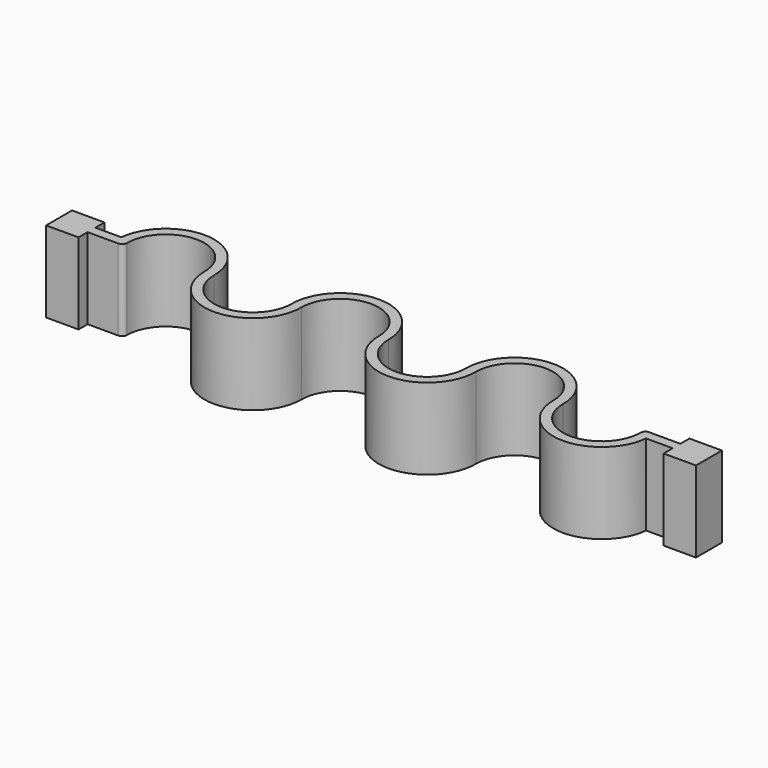
from build123d import *

# Parameters (mm, degrees)
F1_DEPTH = 25


with BuildPart() as f1:
    # F0 (on Top) → F1 (new body)
    with BuildSketch(Plane.XY):
        with BuildLine():
            ThreePointArc((-49.1562802567, 2.3152595113), (-49.2128732163, 1.5662082781), (-49.2317534387, 0.8152595113))
            Line((-49.2317534387, 0.8152595113), (-47.7317534387, 0.8152595113))
            ThreePointArc((-47.7317534387, 0.8152595113), (-47.7108165454, 1.5652595113), (-47.6480710788, 2.3129234465))
            ThreePointArc((-47.6480710788, 2.3129234465), (-47.6898959586, 2.3146753814), (-47.7317534387, 2.3152595113))
            Line((-47.7317534387, 2.3152595113), (-49.1562802567, 2.3152595113))
        make_face()
        with BuildLine():
            Line((-47.7317534387, 0.8152595113), (-49.2317534387, 0.8152595113))
            ThreePointArc((-49.2317534387, 0.8152595113), (-48.7924136105, -0.2454006604), (-47.7317534387, -0.6847404887))
            ThreePointArc((-47.7317534387, -0.6847404887), (-46.6710932669, -0.2454006604), (-46.2317534387, 0.8152595113))
            ThreePointArc((-46.2317534387, 0.8152595113), (-46.6419086012, 1.8459089328), (-47.6480710788, 2.3129234465))
            ThreePointArc((-47.6480710788, 2.3129234465), (-47.7108165454, 1.5652595113), (-47.7317534387, 0.8152595113))
        make_face()
        with BuildLine():
            ThreePointArc((-47.7317534387, -0.6847404887), (-48.7924136105, -0.2454006604), (-49.2317534387, 0.8152595113))
            ThreePointArc((-49.2317534387, 0.8152595113), (-49.2128732163, 1.5662082781), (-49.1562802567, 2.3152595113))
            Line((-49.1562802567, 2.3152595113), (-57.1654987335, 2.3152595113))
            Line((-57.1654987335, 2.3152595113), (-57.1654987335, 5.8152595113))
            Line((-57.1654987335, 5.8152595113), (-67.1654987335, 5.8152595113))
            Line((-67.1654987335, 5.8152595113), (-67.1654987335, -4.1847404887))
            Line((-67.1654987335, -4.1847404887), (-57.1654987335, -4.1847404887))
            Line((-57.1654987335, -4.1847404887), (-57.1654987335, -0.6847404887))
            Line((-57.1654987335, -0.6847404887), (-47.7317534387, -0.6847404887))
        make_face()
        with BuildLine():
            ThreePointArc((-19.3443664014, 0.8152595113), (-33.5371111533, 15.7400728076), (-49.1562802567, 2.3152595113))
            Line((-49.1562802567, 2.3152595113), (-47.7317534387, 2.3152595113))
            ThreePointArc((-47.7317534387, 2.3152595113), (-47.6898959586, 2.3146753814), (-47.6480710788, 2.3129234465))
            ThreePointArc((-47.6480710788, 2.3129234465), (-34.2880599201, 14.25895303), (-20.9280487614, 2.3129234465))
            ThreePointArc((-20.9280487614, 2.3129234465), (-19.8137169799, 1.9051043489), (-19.3443664014, 0.8152595113))
        make_face()
        with BuildLine():
            ThreePointArc((-20.9280487614, 2.3129234465), (-34.2880599201, 14.25895303), (-47.6480710788, 2.3129234465))
            ThreePointArc((-47.6480710788, 2.3129234465), (-46.6419086012, 1.8459089328), (-46.2317534387, 0.8152595113))
            ThreePointArc((-46.2317534387, 0.8152595113), (-34.2880599201, 12.75895303), (-22.3443664014, 0.8152595113))
            ThreePointArc((-22.3443664014, 0.8152595113), (-21.934211239, 1.8459089328), (-20.9280487614, 2.3129234465))
        make_face()
        with BuildLine():
            ThreePointArc((4.5430206358, 0.8152595113), (-7.4006728828, -11.1284340073), (-19.3443664014, 0.8152595113))
            ThreePointArc((-19.3443664014, 0.8152595113), (-19.7545215639, -0.2153899102), (-20.7606840415, -0.6824044238))
            ThreePointArc((-20.7606840415, -0.6824044238), (-7.4006728828, -12.6284340073), (5.9593382759, -0.6824044238))
            ThreePointArc((5.9593382759, -0.6824044238), (4.9531757983, -0.2153899102), (4.5430206358, 0.8152595113))
        make_face()
        with BuildLine():
            ThreePointArc((-20.7606840415, -0.6824044238), (-19.7545215639, -0.2153899102), (-19.3443664014, 0.8152595113))
            ThreePointArc((-19.3443664014, 0.8152595113), (-19.8137169799, 1.9051043489), (-20.9280487614, 2.3129234465))
            ThreePointArc((-20.9280487614, 2.3129234465), (-20.8653032947, 1.5652595113), (-20.8443664014, 0.8152595113))
            ThreePointArc((-20.8443664014, 0.8152595113), (-20.8234295081, 0.0652595113), (-20.7606840415, -0.6824044238))
        make_face()
        with BuildLine():
            ThreePointArc((-20.8443664014, 0.8152595113), (-20.8653032947, 1.5652595113), (-20.9280487614, 2.3129234465))
            ThreePointArc((-20.9280487614, 2.3129234465), (-21.934211239, 1.8459089328), (-22.3443664014, 0.8152595113))
            ThreePointArc((-22.3443664014, 0.8152595113), (-21.8750158229, -0.2745853262), (-20.7606840415, -0.6824044238))
            ThreePointArc((-20.7606840415, -0.6824044238), (-20.8234295081, 0.0652595113), (-20.8443664014, 0.8152595113))
        make_face()
        with BuildLine():
            ThreePointArc((-20.7606840415, -0.6824044238), (-21.8750158229, -0.2745853262), (-22.3443664014, 0.8152595113))
            ThreePointArc((-22.3443664014, 0.8152595113), (-7.4006728828, -14.1284340073), (7.5430206358, 0.8152595113))
            ThreePointArc((7.5430206358, 0.8152595113), (7.0736700573, -0.2745853262), (5.9593382759, -0.6824044238))
            ThreePointArc((5.9593382759, -0.6824044238), (-7.4006728828, -12.6284340073), (-20.7606840415, -0.6824044238))
        make_face()
        with BuildLine():
            ThreePointArc((6.1267029958, 2.3129234465), (5.0123712143, 1.9051043489), (4.5430206358, 0.8152595113))
            ThreePointArc((4.5430206358, 0.8152595113), (4.9531757983, -0.2153899102), (5.9593382759, -0.6824044238))
            ThreePointArc((5.9593382759, -0.6824044238), (6.0220837425, 0.0652595113), (6.0430206358, 0.8152595113))
            ThreePointArc((6.0430206358, 0.8152595113), (6.0639575291, 1.5652595113), (6.1267029958, 2.3129234465))
        make_face()
        with BuildLine():
            ThreePointArc((34.4304076731, 0.8152595113), (19.4867141545, 15.75895303), (4.5430206358, 0.8152595113))
            ThreePointArc((4.5430206358, 0.8152595113), (5.0123712143, 1.9051043489), (6.1267029958, 2.3129234465))
            ThreePointArc((6.1267029958, 2.3129234465), (19.4867141545, 14.25895303), (32.8467253132, 2.3129234465))
            ThreePointArc((32.8467253132, 2.3129234465), (33.9610570946, 1.9051043489), (34.4304076731, 0.8152595113))
        make_face()
        with BuildLine():
            ThreePointArc((6.1267029958, 2.3129234465), (7.1328654734, 1.8459089328), (7.5430206358, 0.8152595113))
            ThreePointArc((7.5430206358, 0.8152595113), (19.4867141545, 12.75895303), (31.4304076731, 0.8152595113))
            ThreePointArc((31.4304076731, 0.8152595113), (31.8405628356, 1.8459089328), (32.8467253132, 2.3129234465))
            ThreePointArc((32.8467253132, 2.3129234465), (19.4867141545, 14.25895303), (6.1267029958, 2.3129234465))
        make_face()
        with BuildLine():
            ThreePointArc((5.9593382759, -0.6824044238), (7.0736700573, -0.2745853262), (7.5430206358, 0.8152595113))
            ThreePointArc((7.5430206358, 0.8152595113), (7.1328654734, 1.8459089328), (6.1267029958, 2.3129234465))
            ThreePointArc((6.1267029958, 2.3129234465), (6.0639575291, 1.5652595113), (6.0430206358, 0.8152595113))
            ThreePointArc((6.0430206358, 0.8152595113), (6.0220837425, 0.0652595113), (5.9593382759, -0.6824044238))
        make_face()
        with BuildLine():
            ThreePointArc((58.3177947104, 0.8152595113), (46.3741011918, -11.1284340073), (34.4304076731, 0.8152595113))
            ThreePointArc((34.4304076731, 0.8152595113), (34.0202525107, -0.2153899102), (33.0140900331, -0.6824044238))
            ThreePointArc((33.0140900331, -0.6824044238), (46.3741011918, -12.6284340073), (59.7341123505, -0.6824044238))
            ThreePointArc((59.7341123505, -0.6824044238), (58.7279498728, -0.2153899102), (58.3177947104, 0.8152595113))
        make_face()
        with BuildLine():
            ThreePointArc((33.0140900331, -0.6824044238), (34.0202525107, -0.2153899102), (34.4304076731, 0.8152595113))
            ThreePointArc((34.4304076731, 0.8152595113), (33.9610570946, 1.9051043489), (32.8467253132, 2.3129234465))
            ThreePointArc((32.8467253132, 2.3129234465), (32.9094707798, 1.5652595113), (32.9304076731, 0.8152595113))
            ThreePointArc((32.9304076731, 0.8152595113), (32.9513445664, 0.0652595113), (33.0140900331, -0.6824044238))
        make_face()
        with BuildLine():
            ThreePointArc((32.8467253132, 2.3129234465), (31.8405628356, 1.8459089328), (31.4304076731, 0.8152595113))
            ThreePointArc((31.4304076731, 0.8152595113), (31.8997582516, -0.2745853262), (33.0140900331, -0.6824044238))
            ThreePointArc((33.0140900331, -0.6824044238), (32.9513445664, 0.0652595113), (32.9304076731, 0.8152595113))
            ThreePointArc((32.9304076731, 0.8152595113), (32.9094707798, 1.5652595113), (32.8467253132, 2.3129234465))
        make_face()
        with BuildLine():
            ThreePointArc((33.0140900331, -0.6824044238), (31.8997582516, -0.2745853262), (31.4304076731, 0.8152595113))
            ThreePointArc((31.4304076731, 0.8152595113), (46.3741011918, -14.1284340073), (61.3177947104, 0.8152595113))
            ThreePointArc((61.3177947104, 0.8152595113), (60.8484441319, -0.2745853262), (59.7341123505, -0.6824044238))
            ThreePointArc((59.7341123505, -0.6824044238), (46.3741011918, -12.6284340073), (33.0140900331, -0.6824044238))
        make_face()
        with BuildLine():
            ThreePointArc((59.9014770703, 2.3129234465), (58.7871452889, 1.9051043489), (58.3177947104, 0.8152595113))
            ThreePointArc((58.3177947104, 0.8152595113), (58.7279498728, -0.2153899102), (59.7341123505, -0.6824044238))
            ThreePointArc((59.7341123505, -0.6824044238), (59.7968578171, 0.0652595113), (59.8177947104, 0.8152595113))
            ThreePointArc((59.8177947104, 0.8152595113), (59.8387316037, 1.5652595113), (59.9014770703, 2.3129234465))
        make_face()
        with BuildLine():
            ThreePointArc((88.2051817477, 0.8152595113), (73.261488229, 15.75895303), (58.3177947104, 0.8152595113))
            ThreePointArc((58.3177947104, 0.8152595113), (58.7871452889, 1.9051043489), (59.9014770703, 2.3129234465))
            ThreePointArc((59.9014770703, 2.3129234465), (73.261488229, 14.25895303), (86.6214993877, 2.3129234465))
            ThreePointArc((86.6214993877, 2.3129234465), (87.7358311692, 1.9051043489), (88.2051817477, 0.8152595113))
        make_face()
        with BuildLine():
            ThreePointArc((59.9014770703, 2.3129234465), (60.907639548, 1.8459089328), (61.3177947104, 0.8152595113))
            ThreePointArc((61.3177947104, 0.8152595113), (73.261488229, 12.75895303), (85.2051817477, 0.8152595113))
            ThreePointArc((85.2051817477, 0.8152595113), (85.6153369101, 1.8459089328), (86.6214993877, 2.3129234465))
            ThreePointArc((86.6214993877, 2.3129234465), (73.261488229, 14.25895303), (59.9014770703, 2.3129234465))
        make_face()
        with BuildLine():
            ThreePointArc((59.7341123505, -0.6824044238), (60.8484441319, -0.2745853262), (61.3177947104, 0.8152595113))
            ThreePointArc((61.3177947104, 0.8152595113), (60.907639548, 1.8459089328), (59.9014770703, 2.3129234465))
            ThreePointArc((59.9014770703, 2.3129234465), (59.8387316037, 1.5652595113), (59.8177947104, 0.8152595113))
            ThreePointArc((59.8177947104, 0.8152595113), (59.7968578171, 0.0652595113), (59.7341123505, -0.6824044238))
        make_face()
        with BuildLine():
            ThreePointArc((112.092568785, 0.8152595113), (100.1488752663, -11.1284340073), (88.2051817477, 0.8152595113))
            ThreePointArc((88.2051817477, 0.8152595113), (87.7950265852, -0.2153899102), (86.7888641076, -0.6824044238))
            ThreePointArc((86.7888641076, -0.6824044238), (100.1488752663, -12.6284340073), (113.508886425, -0.6824044238))
            ThreePointArc((113.508886425, -0.6824044238), (112.5027239474, -0.2153899102), (112.092568785, 0.8152595113))
        make_face()
        with BuildLine():
            ThreePointArc((86.7888641076, -0.6824044238), (87.7950265852, -0.2153899102), (88.2051817477, 0.8152595113))
            ThreePointArc((88.2051817477, 0.8152595113), (87.7358311692, 1.9051043489), (86.6214993877, 2.3129234465))
            ThreePointArc((86.6214993877, 2.3129234465), (86.6842448544, 1.5652595113), (86.7051817477, 0.8152595113))
            ThreePointArc((86.7051817477, 0.8152595113), (86.726118641, 0.0652595113), (86.7888641076, -0.6824044238))
        make_face()
        with BuildLine():
            ThreePointArc((86.6214993877, 2.3129234465), (85.6153369101, 1.8459089328), (85.2051817477, 0.8152595113))
            ThreePointArc((85.2051817477, 0.8152595113), (85.6745323262, -0.2745853262), (86.7888641076, -0.6824044238))
            ThreePointArc((86.7888641076, -0.6824044238), (86.726118641, 0.0652595113), (86.7051817477, 0.8152595113))
            ThreePointArc((86.7051817477, 0.8152595113), (86.6842448544, 1.5652595113), (86.6214993877, 2.3129234465))
        make_face()
        with BuildLine():
            ThreePointArc((86.7888641076, -0.6824044238), (85.6745323262, -0.2745853262), (85.2051817477, 0.8152595113))
            ThreePointArc((85.2051817477, 0.8152595113), (99.3979264996, -14.1095537849), (115.017095603, -0.6847404887))
            Line((115.017095603, -0.6847404887), (113.592568785, -0.6847404887))
            ThreePointArc((113.592568785, -0.6847404887), (113.5507113048, -0.6841563587), (113.508886425, -0.6824044238))
            ThreePointArc((113.508886425, -0.6824044238), (100.1488752663, -12.6284340073), (86.7888641076, -0.6824044238))
        make_face()
        with BuildLine():
            ThreePointArc((113.592568785, 2.3152595113), (112.5319086132, 1.8759196831), (112.092568785, 0.8152595113))
            ThreePointArc((112.092568785, 0.8152595113), (112.5027239474, -0.2153899102), (113.508886425, -0.6824044238))
            ThreePointArc((113.508886425, -0.6824044238), (113.5716318917, 0.0652595113), (113.592568785, 0.8152595113))
            Line((113.592568785, 0.8152595113), (115.092568785, 0.8152595113))
            ThreePointArc((115.092568785, 0.8152595113), (114.6532289567, 1.8759196831), (113.592568785, 2.3152595113))
        make_face()
        with BuildLine():
            ThreePointArc((115.092568785, 0.8152595113), (115.0736885626, 0.0643107446), (115.017095603, -0.6847404887))
            Line((115.017095603, -0.6847404887), (123.2039433718, -0.6847404887))
            Line((123.2039433718, -0.6847404887), (123.2039433718, 0.8152595113))
            Line((123.2039433718, 0.8152595113), (115.092568785, 0.8152595113))
        make_face()
        with BuildLine():
            Line((113.592568785, -0.6847404887), (115.017095603, -0.6847404887))
            ThreePointArc((115.017095603, -0.6847404887), (115.0736885626, 0.0643107446), (115.092568785, 0.8152595113))
            Line((115.092568785, 0.8152595113), (113.592568785, 0.8152595113))
            ThreePointArc((113.592568785, 0.8152595113), (113.5716318917, 0.0652595113), (113.508886425, -0.6824044238))
            ThreePointArc((113.508886425, -0.6824044238), (113.5507113048, -0.6841563587), (113.592568785, -0.6847404887))
        make_face()
        with BuildLine():
            Line((123.2039433718, 2.3152595113), (113.592568785, 2.3152595113))
            ThreePointArc((113.592568785, 2.3152595113), (114.6532289567, 1.8759196831), (115.092568785, 0.8152595113))
            Line((115.092568785, 0.8152595113), (123.2039433718, 0.8152595113))
            Line((123.2039433718, 0.8152595113), (123.2039433718, 2.3152595113))
        make_face()
        Polygon((123.2039433718, 0.8152595113), (123.2039433718, -0.6847404887), (123.2039433718, -4.1847404887), (133.2039433718, -4.1847404887), (133.2039433718, 5.8152595113), (123.2039433718, 5.8152595113), (123.2039433718, 2.3152595113), align=None)
    extrude(amount=F1_DEPTH)


solid = f1.part
